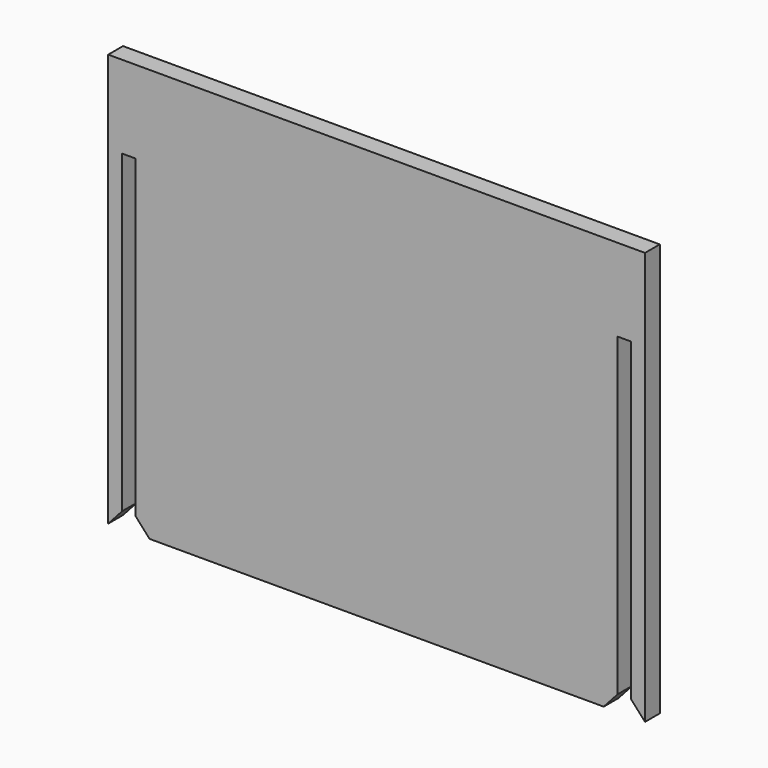
from build123d import *

# Parameters (mm, degrees)
F1_DEPTH = 100
F2_W     = 3.295
F2_H     = 4.472
F3_DEPTH = 80
F4_W     = 3.295
F4_H     = 4.472
F5_DEPTH = 80
F7_DEPTH = 25
F9_DEPTH = 25


with BuildPart() as f1:
    # F0 (on Top) → F1 (new body)
    with BuildSketch(Plane.XY):
        Polygon((103.941999, 2.236), (-26.058001, 2.236), (-26.058001, 0), (-26.058001, -2.236), (103.941999, -2.236), (103.941999, 0), align=None)
    extrude(amount=F1_DEPTH)

    # F2 (on face) → F3 (cut)
    with BuildSketch(Plane(origin=(0, 0, 0), x_dir=(1, 0, 0), z_dir=(0, 0, -1))):
        with Locations((-21.057501, 0)):
            Rectangle(F2_W, F2_H)
    extrude(amount=-F3_DEPTH, mode=Mode.SUBTRACT)

    # F4 (on face) → F5 (cut)
    with BuildSketch(Plane(origin=(0, 0, 0), x_dir=(1, 0, 0), z_dir=(0, 0, -1))):
        with Locations((98.941499, 0)):
            Rectangle(F4_W, F4_H)
    extrude(amount=-F5_DEPTH, mode=Mode.SUBTRACT)

    # F6 (on face) → F7 (cut)
    with BuildSketch(Plane.XZ.offset(2.236)):
        Polygon((-22.705001, 3.723884), (-26.058001, 0), (-22.705001, 0), align=None)
        Polygon((-16.057001, 0), (-19.410001, 3.723884), (-19.410001, 0), align=None)
    extrude(amount=-F7_DEPTH, mode=Mode.SUBTRACT)

    # F8 (on face) → F9 (cut)
    with BuildSketch(Plane.XZ.offset(2.236)):
        Polygon((97.293999, 0), (97.293999, 3.723884), (93.940999, 0), align=None)
        Polygon((100.588999, 0), (103.941999, 0), (100.588999, 3.723884), align=None)
    extrude(amount=-F9_DEPTH, mode=Mode.SUBTRACT)


solid = f1.part
